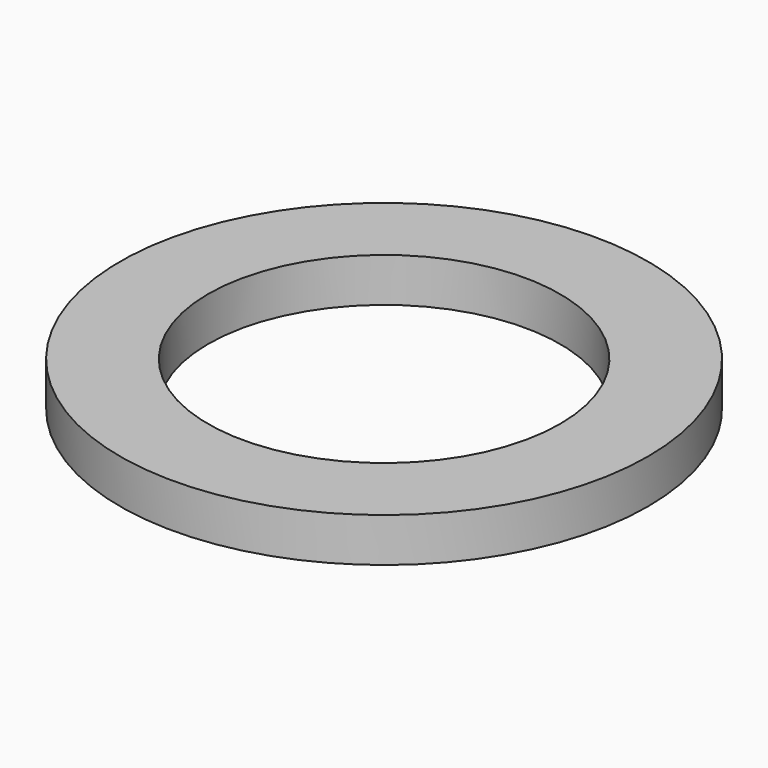
from build123d import *

# Parameters (mm, degrees)
CYLINDER729_R     = 20
CYLINDER729_DEPTH = 5
CYLINDER728_R     = 30
CYLINDER728_DEPTH = 5


with BuildPart() as cylinder799:
    # Cylinder729 → Cylinder729 (new body)
    with BuildSketch(Plane(origin=(0, -8, 28), x_dir=(1, 0, 0), z_dir=(0, 0, 1))):
        Circle(CYLINDER729_R)
    extrude(amount=CYLINDER729_DEPTH)


with BuildPart() as bearing:
    # Cylinder728 → Cylinder728 (new body)
    with BuildSketch(Plane(origin=(0, -8, 28), x_dir=(1, 0, 0), z_dir=(0, 0, 1))):
        Circle(CYLINDER728_R)
    extrude(amount=CYLINDER728_DEPTH)

    # Cut012035013: cut Cylinder799
    add(cylinder799.part, mode=Mode.SUBTRACT)


with BuildPart() as bearing_1:
    # Cut012035013 placement: moved
    add(bearing.part.moved(Location((0, 0, 4))))


solid = bearing_1.part
